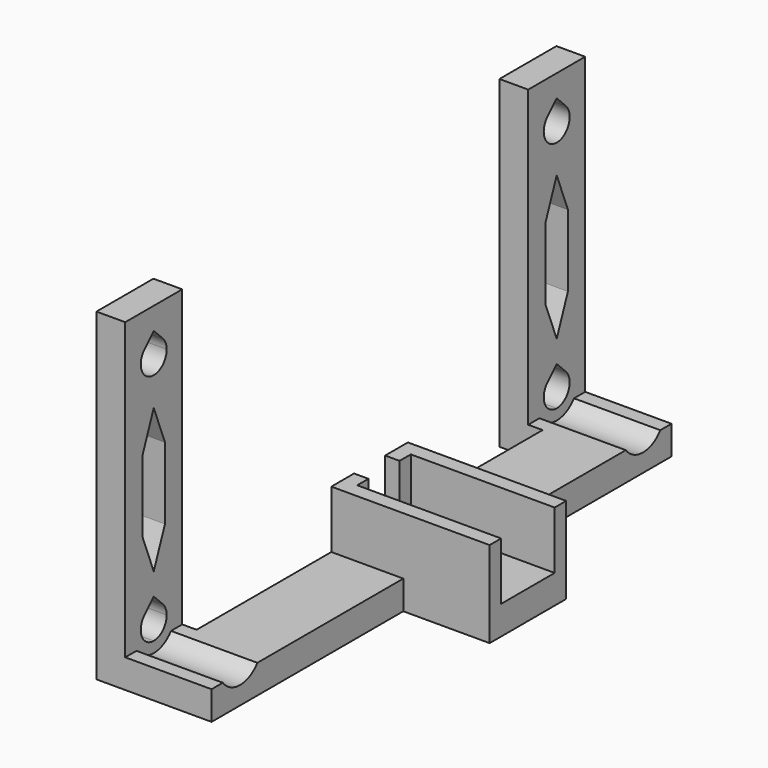
from build123d import *

# Parameters (mm, degrees)
F1_DEPTH  = 4
F2_DEPTH  = 12
F7_W      = 2
F7_H      = 2
F7_H_2    = 1.95
F8_DEPTH  = 4
F9_DEPTH  = 8
F11_DEPTH = 4


with BuildPart() as f1:
    # F0 (on Right) → F1 (new body)
    with BuildSketch(Plane.YZ):
        with BuildLine():
            Line((4.95, 0), (4.95, 6.25))
            Line((4.95, 6.25), (1.95, 6.25))
            Line((1.95, 6.25), (0, 6.25))
            Line((0, 6.25), (-1.95, 6.25))
            Line((-1.95, 6.25), (-4.95, 6.25))
            Line((-4.95, 6.25), (-4.95, -2.25))
            Line((-4.95, -2.25), (-3, -2.25))
            ThreePointArc((-3, -2.25), (-1.1858541226, 3.5575623677), (3.75, 0))
            Line((3.75, 0), (4.95, 0))
        make_face()
        Polygon((-4.95, 6.25), (-1.95, 6.25), (-1.95, 11.25), (-1.95, 16.25), (-4.95, 16.25), align=None)
        Polygon((1.95, 6.25), (4.95, 6.25), (4.95, 16.25), (1.95, 16.25), (1.95, 11.25), align=None)
        with BuildLine():
            Line((4.95, -6.25), (4.95, -2.25))
            Line((4.95, -2.25), (3, -2.25))
            ThreePointArc((3, -2.25), (0, -3.75), (-3, -2.25))
            Line((-3, -2.25), (-4.95, -2.25))
            Line((-4.95, -2.25), (-4.95, -6.25))
            Line((-4.95, -6.25), (4.95, -6.25))
        make_face()
        with BuildLine():
            Line((4.95, -2.25), (4.95, 0))
            Line((4.95, 0), (3.75, 0))
            ThreePointArc((3.75, 0), (3.5575623677, -1.1858541226), (3, -2.25))
            Line((3, -2.25), (4.95, -2.25))
        make_face()
        with BuildLine():
            ThreePointArc((-3, -2.25), (0, -3.75), (3, -2.25))
            Line((3, -2.25), (0, -2.25))
            Line((0, -2.25), (-3, -2.25))
        make_face()
        with BuildLine():
            Line((2.25, 0), (3.75, 0))
            ThreePointArc((3.75, 0), (-1.1858541226, 3.5575623677), (-3, -2.25))
            Line((-3, -2.25), (0, -2.25))
            ThreePointArc((0, -2.25), (-1.5909902577, 1.5909902577), (2.25, 0))
        make_face()
        with BuildLine():
            ThreePointArc((3, -2.25), (3.5575623677, -1.1858541226), (3.75, 0))
            Line((3.75, 0), (2.25, 0))
            ThreePointArc((2.25, 0), (1.5909902577, -1.5909902577), (0, -2.25))
            Line((0, -2.25), (3, -2.25))
        make_face()
        Polygon((-1.95, 6.25), (0, 6.25), (-1.95, 11.25), align=None)
        Polygon((0, 6.25), (1.95, 6.25), (1.95, 11.25), align=None)
    extrude(amount=-F1_DEPTH)

    # F4: F1 across plane


with BuildPart() as f2:
    # F0 (on Right) → F2 (new body)
    with BuildSketch(Plane.YZ):
        with BuildLine():
            Line((4.95, -6.25), (4.95, -2.25))
            Line((4.95, -2.25), (3, -2.25))
            ThreePointArc((3, -2.25), (0, -3.75), (-3, -2.25))
            Line((-3, -2.25), (-4.95, -2.25))
            Line((-4.95, -2.25), (-4.95, -6.25))
            Line((-4.95, -6.25), (4.95, -6.25))
        make_face()
    extrude(amount=F2_DEPTH)


with BuildPart() as f1_1:
    add(f1.part)
    add(f1.part.mirror(Plane(origin=(-2, 3.45, 16.25), x_dir=(1, 0, 0), z_dir=(0, 0, 1))))


with BuildPart() as f6_1:
    # F6: instance of F1
    add(f1_1.part.mirror(Plane(origin=(0, 35, 0), x_dir=(-1, 0, 0), z_dir=(0, 1, 0))))


with BuildPart() as f6_2:
    # F6: instance of F2
    add(f2.part.mirror(Plane(origin=(0, 35, 0), x_dir=(-1, 0, 0), z_dir=(0, 1, 0))))


with BuildPart() as f8:
    # F7 (on face) → F8 (new body)
    with BuildSketch(Plane.XY.offset(-2.25)):
        Polygon((2, 28.35), (2, 4.95), (12, 4.95), (12, 28.35), (4, 28.35), align=None)
        Polygon((4, 30.35), (4, 28.35), (12, 28.35), (24, 28.35), (24, 30.35), align=None)
        with Locations((3, 29.35)):
            Rectangle(F7_W, F7_H)
        with Locations((3, 31.325)):
            Rectangle(F7_W, F7_H_2)
        with Locations((3, 38.675)):
            Rectangle(F7_W, F7_H_2)
        with Locations((3, 40.65)):
            Rectangle(F7_W, F7_H)
        Polygon((4, 39.65), (24, 39.65), (24, 41.65), (12, 41.65), (4, 41.65), align=None)
        Polygon((2, 65.05), (2, 41.65), (4, 41.65), (12, 41.65), (12, 65.05), align=None)
        Polygon((4, 32.3), (4, 30.35), (24, 30.35), (24, 39.65), (4, 39.65), (4, 37.7), align=None)
        Polygon((2, 35), (2, 32.3), (4, 32.3), (4, 37.7), (2, 37.7), align=None)
    extrude(amount=-F8_DEPTH)


with BuildPart() as f1_2:
    add(f1_1.part)

    add(f2.part)  # F9 merges F2

    add(f6_1.part)  # F9 merges F6_1

    add(f6_2.part)  # F9 merges F6_2

    add(f8.part)  # F9 merges F8
    # F7 (on face) → F9 (join)
    with BuildSketch(Plane.XY.offset(-2.25)):
        Polygon((4, 39.65), (24, 39.65), (24, 41.65), (12, 41.65), (4, 41.65), align=None)
        with Locations((3, 40.65)):
            Rectangle(F7_W, F7_H)
        with Locations((3, 38.675)):
            Rectangle(F7_W, F7_H_2)
        with Locations((3, 31.325)):
            Rectangle(F7_W, F7_H_2)
        with Locations((3, 29.35)):
            Rectangle(F7_W, F7_H)
        Polygon((4, 30.35), (4, 28.35), (12, 28.35), (24, 28.35), (24, 30.35), align=None)
    extrude(amount=F9_DEPTH)

    # F10 (on Right) → F11 (cut)
    with BuildSketch(Plane.YZ):
        with BuildLine():
            ThreePointArc((0, 34.75), (0.8610377228, 34.5787289482), (1.5909902577, 34.0909902577))
            Line((1.5909902577, 34.0909902577), (0, 35.6819805153))
            Line((0, 35.6819805153), (-1.5909902577, 34.0909902577))
            ThreePointArc((-1.5909902577, 34.0909902577), (-0.8610377228, 34.5787289482), (0, 34.75))
        make_face()
        with BuildLine():
            ThreePointArc((-1.5909902577, 1.5909902577), (-0.8610377228, 2.0787289482), (0, 2.25))
            ThreePointArc((0, 2.25), (0.8610377228, 2.0787289482), (1.5909902577, 1.5909902577))
            Line((1.5909902577, 1.5909902577), (0, 3.1819805153))
            Line((0, 3.1819805153), (-1.5909902577, 1.5909902577))
        make_face()
        with BuildLine():
            ThreePointArc((70, 2.25), (70.8610377228, 2.0787289482), (71.5909902577, 1.5909902577))
            Line((71.5909902577, 1.5909902577), (70, 3.1819805153))
            Line((70, 3.1819805153), (68.4090097423, 1.5909902577))
            ThreePointArc((68.4090097423, 1.5909902577), (69.1389622772, 2.0787289482), (70, 2.25))
        make_face()
        with BuildLine():
            ThreePointArc((70, 34.75), (70.8610377228, 34.5787289482), (71.5909902577, 34.0909902577))
            Line((71.5909902577, 34.0909902577), (70, 35.6819805153))
            Line((70, 35.6819805153), (68.4090097423, 34.0909902577))
            ThreePointArc((68.4090097423, 34.0909902577), (69.1389622772, 34.5787289482), (70, 34.75))
        make_face()
    extrude(amount=-F11_DEPTH, mode=Mode.SUBTRACT)


solid = f1_2.part
